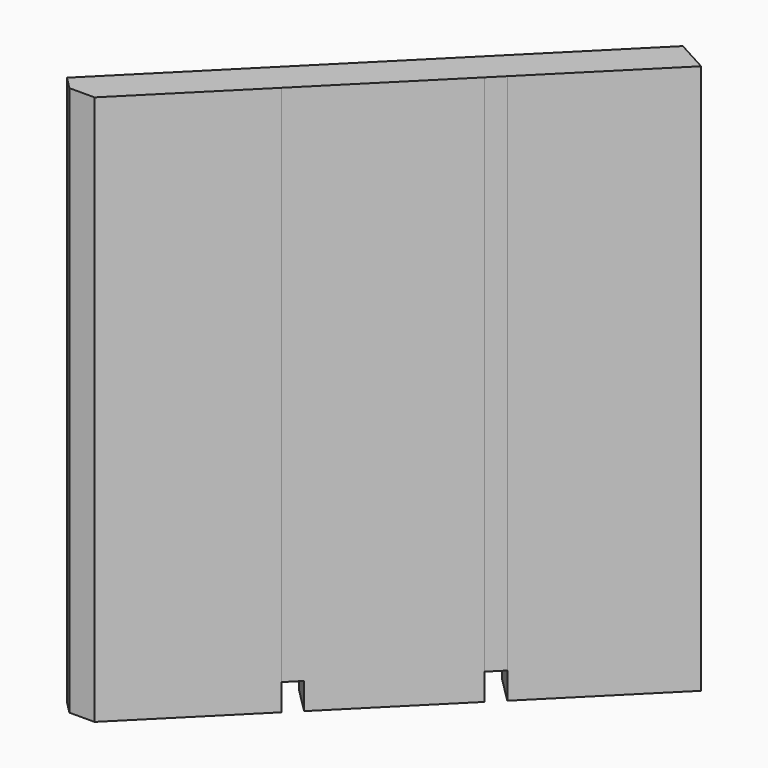
from build123d import *

# Parameters (mm, degrees)
F1_DEPTH = 374.65
F2_DEPTH = 19.05


with BuildPart() as f1:
    # F0 (on Top) → F1 (new body)
    with BuildSketch(Plane.XY):
        Polygon((-124.671279, -80.822305), (-196.513328, -152.664354), (-178.552816, -170.624866), (-106.710767, -98.782817), align=None)
        Polygon((-20.627949, -12.7), (-43.848974, 0), (-115.691023, -71.842049), (-97.73051, -89.802561), align=None)
        Polygon((-115.691023, -71.842049), (-124.671279, -80.822305), (-106.710767, -98.782817), (-97.73051, -89.802561), align=None)
        Polygon((-205.493584, -161.64461), (-288.868718, -245.019744), (-279.888462, -254), (-261.927949, -254), (-187.533072, -179.605122), align=None)
        Polygon((-196.513328, -152.664354), (-205.493584, -161.64461), (-187.533072, -179.605122), (-178.552816, -170.624866), align=None)
    extrude(amount=F1_DEPTH)

    # F0 (on Top) → F2 (join)
    with BuildSketch(Plane.XY):
        Polygon((-20.627949, -12.7), (-43.848974, 0), (-115.691023, -71.842049), (-97.73051, -89.802561), align=None)
        Polygon((-124.671279, -80.822305), (-196.513328, -152.664354), (-178.552816, -170.624866), (-106.710767, -98.782817), align=None)
        Polygon((-205.493584, -161.64461), (-288.868718, -245.019744), (-279.888462, -254), (-261.927949, -254), (-187.533072, -179.605122), align=None)
    extrude(amount=-F2_DEPTH)


solid = f1.part
